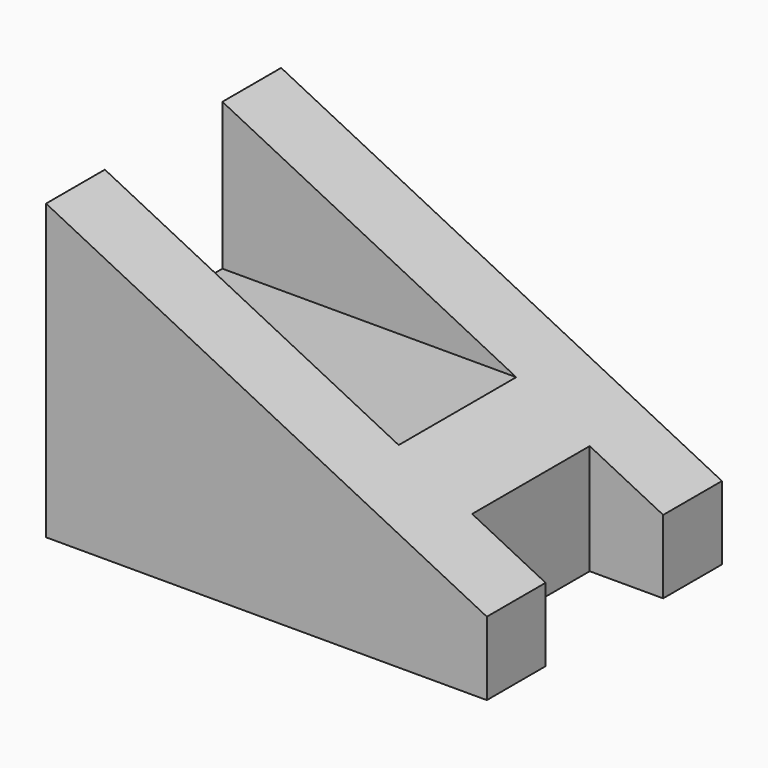
from build123d import *

# Parameters (mm, degrees)
F0_W     = 10
F0_H     = 7.5
F1_DEPTH = 30
F2_W     = 10
F2_H     = 7.5
F3_DEPTH = 5
F5_DEPTH = 20.001
F6_W     = 10
F6_H     = 10
F7_DEPTH = 30.001


with BuildPart() as f1:
    # F0 (on Right) → F1 (new body)
    with BuildSketch(Plane.YZ):
        Polygon((0, 20), (0, 0), (5, 0), (5, 7.5), (15, 7.5), (15, 0), (20, 0), (20, 20), align=None)
        with Locations((10, 3.75)):
            Rectangle(F0_W, F0_H)
    extrude(amount=F1_DEPTH)

    # F2 (on face) → F3 (cut)
    with BuildSketch(Plane.YZ.offset(30)):
        with Locations((10, 3.75)):
            Rectangle(F2_W, F2_H)
    extrude(amount=-F3_DEPTH, mode=Mode.SUBTRACT)

    # F4 (on face) → F5 (cut, through all)
    with BuildSketch(Plane.XZ):
        Polygon((0, 20), (30, 5), (30, 20), align=None)
    extrude(amount=-F5_DEPTH, mode=Mode.SUBTRACT)

    # F6 (on face) → F7 (cut, through all)
    with BuildSketch(Plane.YZ):
        with Locations((10, 15)):
            Rectangle(F6_W, F6_H)
    extrude(amount=F7_DEPTH, mode=Mode.SUBTRACT)


solid = f1.part
